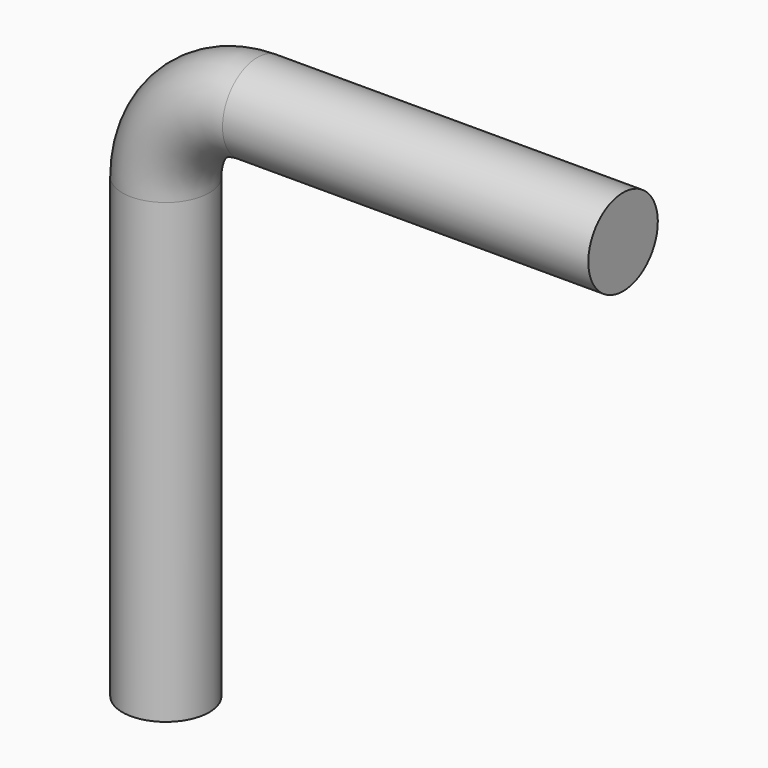
from build123d import *

# Parameters (mm, degrees)
SKETCH_R = 9.5


with BuildPart() as part:
    # AdditivePipe: sweep along a path in Sketch001
    with BuildLine(Plane.XZ) as additivepipe_path:
        Line((0, 0), (0, 100))
        ThreePointArc((0, 100), (5.857864, 114.142136), (20, 120))
        Line((20, 120), (100, 120))
    # Sketch → AdditivePipe (sweep)
    with BuildSketch(Plane.XY):
        Circle(SKETCH_R)
    sweep(path=additivepipe_path.line)


solid = part.part
